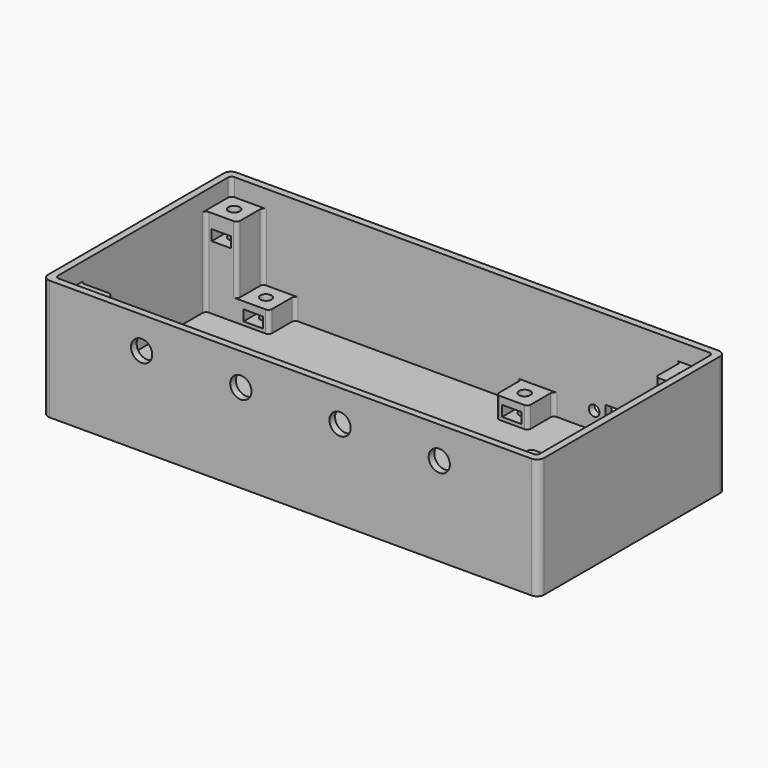
from build123d import *

# Parameters (mm, degrees)
SKETCH002_W     = 140
SKETCH002_H     = 66
PAD001_DEPTH    = 4
SKETCH003_W     = 136
SKETCH003_H     = 62
PAD002_DEPTH    = 30
SKETCH004_R     = 3
POCKET001_DEPTH = 5
FILLET_R        = 2
FILLET001_R     = 2
SKETCH005_R     = 1.5
SKETCH005_W     = 10
SKETCH005_H     = 5
POCKET002_DEPTH = 5
SKETCH006_W     = 18
SKETCH006_H     = 9
SKETCH006_W_2   = 9
PAD003_DEPTH    = 6
SKETCH007_W     = 9
SKETCH007_H     = 9
PAD004_DEPTH    = 19
SKETCH008_W     = 9
SKETCH008_H     = 9
PAD005_DEPTH    = 19
SKETCH009_W     = 9
SKETCH009_H     = 9
PAD006_DEPTH    = 25
FILLET004_R     = 1
SKETCH014_W     = 5.5
SKETCH014_H     = 3
POCKET005_DEPTH = 7.5
SKETCH015_W     = 5.5
SKETCH015_H     = 3
POCKET006_DEPTH = 7.5
SKETCH016_W     = 5.5
SKETCH016_H     = 3
POCKET007_DEPTH = 7.4
SKETCH017_W     = 5.5
SKETCH017_H     = 3
POCKET008_DEPTH = 7.5
SKETCH018_W     = 5.5
SKETCH018_H     = 3
POCKET009_DEPTH = 7.5
SKETCH019_W     = 5.5
SKETCH019_H     = 3
POCKET010_DEPTH = 7.5
SKETCH020_R     = 1.6
POCKET011_DEPTH = 12
SKETCH021_R     = 1.6
POCKET012_DEPTH = 12
SKETCH022_R     = 1.6
POCKET013_DEPTH = 12
SKETCH023_R     = 1.6
POCKET014_DEPTH = 12
SKETCH024_R     = 1.6
POCKET015_DEPTH = 8
SKETCH025_R     = 1.6
POCKET016_DEPTH = 8
SKETCH026_R     = 1.6
POCKET017_DEPTH = 8
SKETCH027_R     = 1.6
POCKET018_DEPTH = 8
FILLET005_R     = 1


with BuildPart() as part:
    # Sketch002 → Pad001 (new body)
    with BuildSketch(Plane.XY):
        Rectangle(SKETCH002_W, SKETCH002_H)
    extrude(amount=PAD001_DEPTH)

    # Sketch003 (on Face6 of Pad001) → Pad002 (join)
    with BuildSketch(Plane.XY.offset(4)):
        Polygon((-70, 33), (-70, -33), (-68, -33), (68, -33), (70, -33), (70, 33), (68, 33), (-68, 33), align=None)
        Rectangle(SKETCH003_W, SKETCH003_H, mode=Mode.SUBTRACT)
    extrude(amount=PAD002_DEPTH)

    # Sketch004 (on Face2 of Pad002) → Pocket001 (cut)
    with BuildSketch(Plane.XZ.offset(33)):
        with Locations((42, 25)):
            Circle(SKETCH004_R)
        with Locations((-42, 25)):
            Circle(SKETCH004_R)
        with Locations((-14, 25)):
            Circle(SKETCH004_R)
        with Locations((14, 25)):
            Circle(SKETCH004_R)
    extrude(amount=-POCKET001_DEPTH, mode=Mode.SUBTRACT)

    # Fillet
    fillet_edges = [part.edges().sort_by_distance(p)[0] for p in [
        (-70, -33, 17),
        (70, -33, 17),
    ]]
    fillet(fillet_edges, radius=FILLET_R)

    # Fillet001
    fillet001_edges = [part.edges().sort_by_distance(p)[0] for p in [
        (70, 33, 17),
        (-70, 33, 17),
    ]]
    fillet(fillet001_edges, radius=FILLET001_R)

    # Sketch005 (on Face5 of Fillet001) → Pocket002 (cut)
    with BuildSketch(Plane(origin=(0, 33, 0), x_dir=(-1, 0, 0), z_dir=(0, 1, 0))):
        with Locations((-34.5, 9)):
            Circle(SKETCH005_R)
        with Locations((-51, 9)):
            Circle(SKETCH005_R)
        with Locations((-42.75, 9)):
            Rectangle(SKETCH005_W, SKETCH005_H)
    extrude(amount=-POCKET002_DEPTH, mode=Mode.SUBTRACT)

    # Sketch006 (on Face25 of Pocket002) → Pad003 (join)
    with BuildSketch(Plane.XY.offset(4)):
        with Locations((-59, 26.5)):
            Rectangle(SKETCH006_W, SKETCH006_H)
        with Locations((-59, -26.5)):
            Rectangle(SKETCH006_W, SKETCH006_H)
        with Locations((18.5, 26.5)):
            Rectangle(SKETCH006_W_2, SKETCH006_H)
        with Locations((18.5, -26.5)):
            Rectangle(SKETCH006_W_2, SKETCH006_H)
    extrude(amount=PAD003_DEPTH)

    # Sketch007 (on Face31 of Pad003) → Pad004 (join)
    with BuildSketch(Plane.XY.offset(10)):
        with Locations((-63.5, 26.5)):
            Rectangle(SKETCH007_W, SKETCH007_H)
    extrude(amount=PAD004_DEPTH)

    # Sketch008 (on Face30 of Pad004) → Pad005 (join)
    with BuildSketch(Plane.XY.offset(10)):
        with Locations((-63.5, -26.5)):
            Rectangle(SKETCH008_W, SKETCH008_H)
    extrude(amount=PAD005_DEPTH)

    # Sketch009 (on Face25 of Pad005) → Pad006 (join)
    with BuildSketch(Plane.XY.offset(4)):
        with Locations((63.5, 26.5)):
            Rectangle(SKETCH009_W, SKETCH009_H)
        with Locations((63.5, -26.5)):
            Rectangle(SKETCH009_W, SKETCH009_H)
    extrude(amount=PAD006_DEPTH)

    # Fillet004
    fillet004_edges = [part.edges().sort_by_distance(p)[0] for p in [
        (-68, 31, 31.5),
        (68, 31, 31.5),
        (68, -31, 31.5),
        (-68, -31, 31.5),
    ]]
    fillet(fillet004_edges, radius=FILLET004_R)

    # Sketch014 (on Face36 of Fillet004) → Pocket005 (cut)
    with BuildSketch(Plane.XZ.offset(-22)):
        with Locations((-63.5, 23.5)):
            Rectangle(SKETCH014_W, SKETCH014_H)
        with Locations((-54.5, 6.5)):
            Rectangle(SKETCH014_W, SKETCH014_H)
    extrude(amount=-POCKET005_DEPTH, mode=Mode.SUBTRACT)

    # Sketch015 (on Face33 of Pocket005) → Pocket006 (cut)
    with BuildSketch(Plane.XZ.offset(-22)):
        with Locations((63.5, 23.5)):
            Rectangle(SKETCH015_W, SKETCH015_H)
    extrude(amount=-POCKET006_DEPTH, mode=Mode.SUBTRACT)

    # Sketch016 (on Face35 of Pocket006) → Pocket007 (cut)
    with BuildSketch(Plane(origin=(0, -22, 0), x_dir=(-1, 0, 0), z_dir=(0, 1, 0))):
        with Locations((63.5, 23.5)):
            Rectangle(SKETCH016_W, SKETCH016_H)
        with Locations((54.5, 6.5)):
            Rectangle(SKETCH016_W, SKETCH016_H)
    extrude(amount=-POCKET007_DEPTH, mode=Mode.SUBTRACT)

    # Sketch017 (on Face34 of Pocket007) → Pocket008 (cut)
    with BuildSketch(Plane(origin=(0, -22, 0), x_dir=(-1, 0, 0), z_dir=(0, 1, 0))):
        with Locations((-63.5, 23.5)):
            Rectangle(SKETCH017_W, SKETCH017_H)
    extrude(amount=-POCKET008_DEPTH, mode=Mode.SUBTRACT)

    # Sketch018 (on Face53 of Pocket008) → Pocket009 (cut)
    with BuildSketch(Plane.XZ.offset(-22)):
        with Locations((18.5, 6.5)):
            Rectangle(SKETCH018_W, SKETCH018_H)
    extrude(amount=-POCKET009_DEPTH, mode=Mode.SUBTRACT)

    # Sketch019 (on Face52 of Pocket009) → Pocket010 (cut)
    with BuildSketch(Plane(origin=(0, -22, 0), x_dir=(-1, 0, 0), z_dir=(0, 1, 0))):
        with Locations((-18.5, 6.5)):
            Rectangle(SKETCH019_W, SKETCH019_H)
    extrude(amount=-POCKET010_DEPTH, mode=Mode.SUBTRACT)

    # Sketch020 (on Face37 of Pocket010) → Pocket011 (cut)
    with BuildSketch(Plane.XY.offset(29)):
        with Locations((-63.5, 26.5)):
            Circle(SKETCH020_R)
    extrude(amount=-POCKET011_DEPTH, mode=Mode.SUBTRACT)

    # Sketch021 (on Face18 of Pocket011) → Pocket012 (cut)
    with BuildSketch(Plane.XY.offset(29)):
        with Locations((-63.5, -26.5)):
            Circle(SKETCH021_R)
    extrude(amount=-POCKET012_DEPTH, mode=Mode.SUBTRACT)

    # Sketch022 (on Face32 of Pocket012) → Pocket013 (cut)
    with BuildSketch(Plane.XY.offset(29)):
        with Locations((63.5, 26.5)):
            Circle(SKETCH022_R)
    extrude(amount=-POCKET013_DEPTH, mode=Mode.SUBTRACT)

    # Sketch023 (on Face22 of Pocket013) → Pocket014 (cut)
    with BuildSketch(Plane.XY.offset(29)):
        with Locations((63.5, -26.5)):
            Circle(SKETCH023_R)
    extrude(amount=-POCKET014_DEPTH, mode=Mode.SUBTRACT)

    # Sketch024 (on Face43 of Pocket014) → Pocket015 (cut)
    with BuildSketch(Plane.XY.offset(10)):
        with Locations((-54.5, 26.5)):
            Circle(SKETCH024_R)
    extrude(amount=-POCKET015_DEPTH, mode=Mode.SUBTRACT)

    # Sketch025 (on Face40 of Pocket015) → Pocket016 (cut)
    with BuildSketch(Plane.XY.offset(10)):
        with Locations((18.5, 26.5)):
            Circle(SKETCH025_R)
    extrude(amount=-POCKET016_DEPTH, mode=Mode.SUBTRACT)

    # Sketch026 (on Face26 of Pocket016) → Pocket017 (cut)
    with BuildSketch(Plane.XY.offset(10)):
        with Locations((18.5, -26.5)):
            Circle(SKETCH026_R)
    extrude(amount=-POCKET017_DEPTH, mode=Mode.SUBTRACT)

    # Sketch027 (on Face20 of Pocket017) → Pocket018 (cut)
    with BuildSketch(Plane.XY.offset(10)):
        with Locations((-54.5, -26.5)):
            Circle(SKETCH027_R)
    extrude(amount=-POCKET018_DEPTH, mode=Mode.SUBTRACT)

    # Fillet005
    fillet005_edges = [part.edges().sort_by_distance(p)[0] for p in [
        (68, 22, 16.5),
        (59, 22, 16.5),
        (59, 31, 16.5),
        (23, 31, 7),
        (23, 22, 7),
        (14, 22, 7),
        (14, 31, 7),
        (-68, 22, 16.5),
        (-59, 22, 19.5),
        (-59, 31, 19.5),
        (-50, 22, 7),
        (-50, 31, 7),
        (68, -22, 16.5),
        (59, -22, 16.5),
        (59, -31, 16.5),
        (23, -31, 7),
        (23, -22, 7),
        (14, -22, 7),
        (14, -31, 7),
        (-50, -31, 7),
        (-50, -22, 7),
        (-59, -22, 19.5),
        (-68, -22, 16.5),
        (-59, -31, 19.5),
    ]]
    fillet(fillet005_edges, radius=FILLET005_R)


solid = part.part
